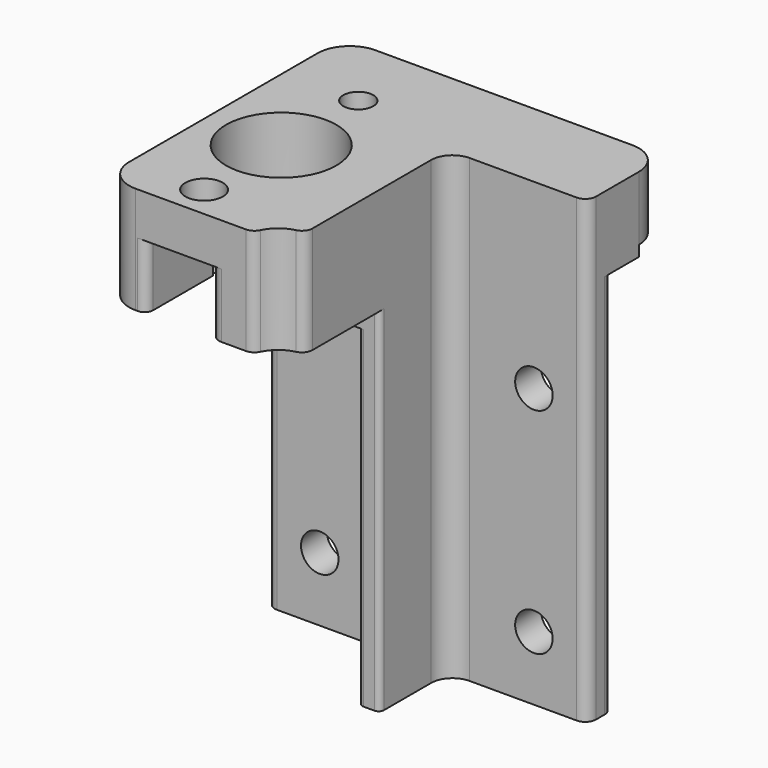
from build123d import *

# Parameters (mm, degrees)
PAD001_DEPTH      = 15
PAD001_DEPTH_BACK = 15
SKETCH014_W       = 8
SKETCH014_H       = 6
POCKET_DEPTH      = 11
SKETCH013_R       = 1.4
SKETCH013_R_2     = 1.75
POCKET001_DEPTH   = 17
SKETCH012_R       = 5.15
POCKET002_DEPTH   = 43.001
SKETCH007_R       = 1.75
POCKET003_DEPTH   = 17.001
SKETCH008_W       = 8.907674
SKETCH008_H       = 16
SKETCH008_W_2     = 9.43002
SKETCH008_H_2     = 13.41794
POCKET004_DEPTH   = 31
SKETCH018_R       = 3
POCKET005_DEPTH   = 55.001
SKETCH021_W       = 22.157055
SKETCH021_H       = 18.106247
POCKET006_DEPTH   = 44
SKETCH015_W       = 50.47
SKETCH015_H       = 40
POCKET007_DEPTH   = 3
FILLET_R          = 3
FILLET001_R       = 1
FILLET002_R       = 2
FILLET003_R       = 1
FILLET004_R       = 1
FILLET005_R       = 1
FILLET006_R       = 1
FILLET007_R       = 5
FILLET008_R       = 1
FILLET009_R       = 0.8
FILLET010_R       = 0.5
FILLET011_R       = 0.5
FILLET012_R       = 0.5
FILLET013_R       = 1


with BuildPart() as part:
    # Sketch005 → Pad001 (new body, two sides)
    with BuildSketch(Plane.YZ) as pad001_sk:
        Polygon((0, -20), (0, 17), (3, 17), (3, 23), (-25, 23), (-25, 13), (-14, 13), (-14, -20), align=None)
    extrude(amount=PAD001_DEPTH)
    extrude(pad001_sk.sketch, amount=-PAD001_DEPTH_BACK)

    # Sketch014 (on Face5 of Pad001) → Pocket (cut)
    with BuildSketch(Plane(origin=(0, -25, 0), x_dir=(0, 0, -1), z_dir=(0, -1, 0))):
        with Locations((-15, -8)):
            Rectangle(SKETCH014_W, SKETCH014_H)
    extrude(amount=-POCKET_DEPTH, mode=Mode.SUBTRACT)

    # Sketch013 → Pocket001 (cut)
    with BuildSketch(Plane(origin=(0, 0, 35), x_dir=(0, -1, 0), z_dir=(0, 0, 1))):
        with Locations((4, -8)):
            Circle(SKETCH013_R)
        with Locations((22, -8)):
            Circle(SKETCH013_R_2)
    extrude(amount=-POCKET001_DEPTH, mode=Mode.SUBTRACT)

    # Sketch012 (on Face4 of Pad001) → Pocket002 (cut, through all)
    with BuildSketch(Plane(origin=(0, 0, 23), x_dir=(0, -1, 0), z_dir=(0, 0, 1))):
        with Locations((13, -8)):
            Circle(SKETCH012_R)
    extrude(amount=-POCKET002_DEPTH, mode=Mode.SUBTRACT)

    # Sketch007 → Pocket003 (cut, through all)
    with BuildSketch(Plane(origin=(0, -14, 0), x_dir=(0, 0, -1), z_dir=(0, -1, 0))):
        with Locations((-6, 10)):
            Circle(SKETCH007_R)
        with Locations((14, 10)):
            Circle(SKETCH007_R)
        with Locations((-6, -10)):
            Circle(SKETCH007_R)
        with Locations((14, -10)):
            Circle(SKETCH007_R)
    extrude(amount=-POCKET003_DEPTH, mode=Mode.SUBTRACT)

    # Sketch008 → Pocket004 (cut)
    with BuildSketch(Plane.YX.offset(20)):
        with Locations((-10.453837, -8)):
            Rectangle(SKETCH008_W, SKETCH008_H)
        with Locations((-10.71501, 10.872729)):
            Rectangle(SKETCH008_W_2, SKETCH008_H_2)
    extrude(amount=-POCKET004_DEPTH, mode=Mode.SUBTRACT)

    # Sketch018 → Pocket005 (cut, through all)
    with BuildSketch(Plane(origin=(0, 0, 35), x_dir=(0, -1, 0), z_dir=(0, 0, 1))):
        with Locations((25.735598, 1.909207)):
            Circle(SKETCH018_R)
    extrude(amount=-POCKET005_DEPTH, mode=Mode.SUBTRACT)

    # Sketch021 → Pocket006 (cut)
    with BuildSketch(Plane(origin=(0, 0, 23), x_dir=(0, -1, 0), z_dir=(0, 0, 1))):
        with Locations((17.078527, 11.053123)):
            Rectangle(SKETCH021_W, SKETCH021_H)
    extrude(amount=-POCKET006_DEPTH, mode=Mode.SUBTRACT)

    # Sketch015 → Pocket007 (cut)
    with BuildSketch(Plane.ZX):
        with Locations((-9.235, 0)):
            Rectangle(SKETCH015_W, SKETCH015_H)
    extrude(amount=-POCKET007_DEPTH, mode=Mode.SUBTRACT)

    # Fillet
    fillet_edges = [part.edges().sort_by_distance(p)[0] for p in [
        (-15, 3, 20),
        (-15, -25, 18),
        (15, 3, 20),
    ]]
    fillet(fillet_edges, radius=FILLET_R)

    # Fillet001
    fillet001_edges = [part.edges().sort_by_distance(p)[0] for p in [
        (15, -6, 17),
    ]]
    fillet(fillet001_edges, radius=FILLET001_R)

    # Fillet002
    fillet002_edges = [part.edges().sort_by_distance(p)[0] for p in [
        (2, -6, 1.5),
    ]]
    fillet(fillet002_edges, radius=FILLET002_R)

    # Fillet003
    fillet003_edges = [part.edges().sort_by_distance(p)[0] for p in [
        (2, -22.736972, 18),
        (-0.999211, -25, 18),
    ]]
    fillet(fillet003_edges, radius=FILLET003_R)

    # Fillet004
    fillet004_edges = [part.edges().sort_by_distance(p)[0] for p in [
        (-15, -6, -4.5),
    ]]
    fillet(fillet004_edges, radius=FILLET004_R)

    # Fillet005
    fillet005_edges = [part.edges().sort_by_distance(p)[0] for p in [
        (-15, -3, -2),
    ]]
    fillet(fillet005_edges, radius=FILLET005_R)

    # Fillet006
    fillet006_edges = [part.edges().sort_by_distance(p)[0] for p in [
        (15, -3, -2),
    ]]
    fillet(fillet006_edges, radius=FILLET006_R)

    # Fillet007
    fillet007_edges = [part.edges().sort_by_distance(p)[0] for p in [
        (0, -6, -4.5),
    ]]
    fillet(fillet007_edges, radius=FILLET007_R)

    # Fillet008
    fillet008_edges = [part.edges().sort_by_distance(p)[0] for p in [
        (-5, -25, 16),
    ]]
    fillet(fillet008_edges, radius=FILLET008_R)

    # Fillet009
    fillet009_edges = [part.edges().sort_by_distance(p)[0] for p in [
        (-11, -25, 16),
    ]]
    fillet(fillet009_edges, radius=FILLET009_R)

    # Fillet010
    fillet010_edges = [part.edges().sort_by_distance(p)[0] for p in [
        (0, -14, -4.5),
    ]]
    fillet(fillet010_edges, radius=FILLET010_R)

    # Fillet011
    fillet011_edges = [part.edges().sort_by_distance(p)[0] for p in [
        (2, -14, -3.5),
    ]]
    fillet(fillet011_edges, radius=FILLET011_R)

    # Fillet012
    fillet012_edges = [part.edges().sort_by_distance(p)[0] for p in [
        (-15, -14, 12),
    ]]
    fillet(fillet012_edges, radius=FILLET012_R)

    # Fillet013
    fillet013_edges = [part.edges().sort_by_distance(p)[0] for p in [
        (-13.05198, -14, 12),
        (-2.94802, -14, 12),
    ]]
    fillet(fillet013_edges, radius=FILLET013_R)


solid = part.part
